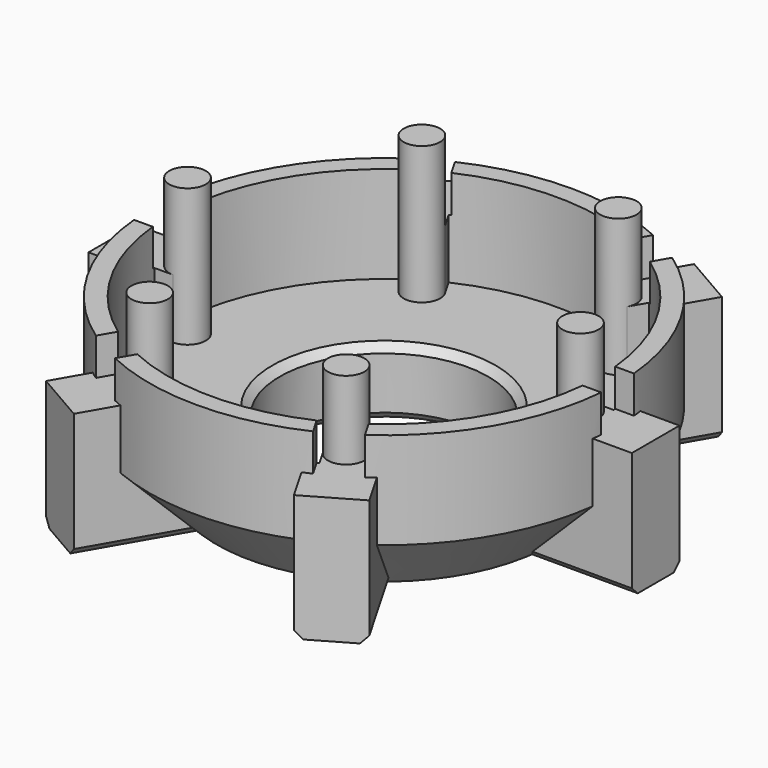
from build123d import *

# Parameters (mm, degrees)
F0_R      = 31.5
F1_DEPTH  = 22
F3_R      = 14
F4_DEPTH  = 22.001
F5_SIZE   = 9
F6_W      = 15
F6_H      = 8
F7_DEPTH  = 17
F2_R      = 29
F8_DEPTH  = 13
F9_W      = 11.6111175559
F9_H      = 5.5
F10_DEPTH = 5
F11_R     = 2.45
F12_DEPTH = 18.5
F13_W     = 3.3197699547
F13_H     = 4.9
F14_DEPTH = 8
F15_SIZE  = 1


with BuildPart() as f1:
    # F0 (on Top) → F1 (new body)
    with BuildSketch(Plane.XY):
        Circle(F0_R)
    extrude(amount=-F1_DEPTH)

    # F3 (on face) → F4 (cut, through all)
    with BuildSketch(Plane(origin=(0, 0, -22), x_dir=(1, 0, 0), z_dir=(0, 0, -1))):
        Circle(F3_R)
    extrude(amount=-F4_DEPTH, mode=Mode.SUBTRACT)

    # F5
    f5_edges = [f1.edges().sort_by_distance(p)[0] for p in [
        (-31.5, 0, -22),
    ]]
    chamfer(f5_edges, length=F5_SIZE)

    # F6 (on face) → F7 (join)
    with BuildSketch(Plane(origin=(0, 0, -22), x_dir=(1, 0, 0), z_dir=(0, 0, -1))):
        with Locations((29, 0)):
            Rectangle(F6_W, F6_H)
        Polygon((21.7141016151, 29.6099272381), (14.7858983849, 33.6099272381), (7.2858983849, 20.6195461814), (14.2141016151, 16.6195461814), align=None)
        Polygon((-14.7858983849, 33.6099272381), (-21.7141016151, 29.6099272381), (-14.2141016151, 16.6195461814), (-7.2858983849, 20.6195461814), align=None)
        with Locations((-29, 0)):
            Rectangle(F6_W, F6_H)
        Polygon((-21.7141016151, -29.6099272381), (-14.7858983849, -33.6099272381), (-7.2858983849, -20.6195461814), (-14.2141016151, -16.6195461814), align=None)
        Polygon((14.7858983849, -33.6099272381), (21.7141016151, -29.6099272381), (14.2141016151, -16.6195461814), (7.2858983849, -20.6195461814), align=None)
    extrude(amount=-F7_DEPTH)

    # F2 (on face) → F8 (cut)
    with BuildSketch(Plane.XY):
        Circle(F2_R)
    extrude(amount=-F8_DEPTH, mode=Mode.SUBTRACT)

    # F9 (on face) → F10 (cut)
    with BuildSketch(Plane.XY):
        with Locations((30.3034381941, 0)):
            Rectangle(F9_W, F9_H)
        Polygon((20.4360683464, 29.896308683), (15.6729286256, 32.646308683), (9.8673698477, 22.5907859132), (14.6305095685, 19.8407859132), align=None)
        Polygon((-15.6729286256, 32.646308683), (-20.4360683464, 29.896308683), (-14.6305095685, 19.8407859132), (-9.8673698477, 22.5907859132), align=None)
        with Locations((-30.3034381941, 0)):
            Rectangle(F9_W, F9_H)
        Polygon((-20.4360683464, -29.896308683), (-15.6729286256, -32.646308683), (-9.8673698477, -22.5907859132), (-14.6305095685, -19.8407859132), align=None)
        Polygon((15.6729286256, -32.646308683), (20.4360683464, -29.896308683), (14.6305095685, -19.8407859132), (9.8673698477, -22.5907859132), align=None)
    extrude(amount=-F10_DEPTH, mode=Mode.SUBTRACT)

    # F11 (on face) → F12 (join)
    with BuildSketch(Plane.XY.offset(-13)):
        with Locations((-26.4, 0)):
            Circle(F11_R)
        with Locations((-13.2, -22.8630706599)):
            Circle(F11_R)
        with Locations((13.2, -22.8630706599)):
            Circle(F11_R)
        with Locations((26.4, 0)):
            Circle(F11_R)
        with Locations((13.2, 22.8630706599)):
            Circle(F11_R)
        with Locations((-13.2, 22.8630706599)):
            Circle(F11_R)
    extrude(amount=F12_DEPTH)

    # F13 (on face) → F14 (join)
    with BuildSketch(Plane.XY.offset(-13)):
        with Locations((-28.0598849773, 0)):
            Rectangle(F13_W, F13_H)
        Polygon((-16.9816472166, -24.5130757754), (-12.7381227381, -26.9630757754), (-11.0782377607, -24.0880706599), (-15.3217622393, -21.6380706599), align=None)
        Polygon((12.7381227381, -26.9630757754), (16.9816472166, -24.5130757754), (15.3217622393, -21.6380706599), (11.0782377607, -24.0880706599), align=None)
        with Locations((28.0598849773, 0)):
            Rectangle(F13_W, F13_H)
        Polygon((16.9816472166, 24.5130757754), (12.7381227381, 26.9630757754), (11.0782377607, 24.0880706599), (15.3217622393, 21.6380706599), align=None)
        Polygon((-12.7381227381, 26.9630757754), (-16.9816472166, 24.5130757754), (-15.3217622393, 21.6380706599), (-11.0782377607, 24.0880706599), align=None)
    extrude(amount=F14_DEPTH)

    # F15
    f15_edges = [f1.edges().sort_by_distance(p)[0] for p in [
        (-14, 0, -22),
        (-14, 0, -13),
        (-18.124499, -23.392553, -22),
        (-11.196296, -27.392553, -22),
        (11.196296, -27.392553, -22),
        (18.124499, -23.392553, -22),
        (29.320795, -4, -22),
        (29.320795, 4, -22),
        (18.124499, 23.392553, -22),
        (11.196296, 27.392553, -22),
        (-11.196296, 27.392553, -22),
        (-18.124499, 23.392553, -22),
        (-29.320795, 4, -22),
        (-29.320795, -4, -22),
    ]]
    chamfer(f15_edges, length=F15_SIZE)


solid = f1.part
